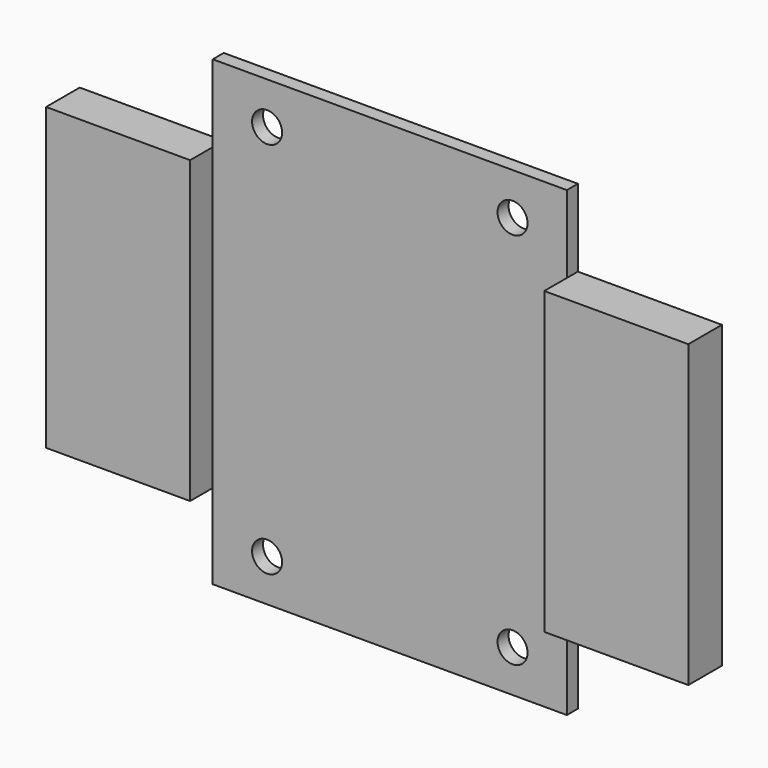
from build123d import *

# Parameters (mm, degrees)
F0_R     = 2.5
F1_DEPTH = 2.29
F0_W     = 24
F0_H     = 50
F2_DEPTH = 7


with BuildPart() as f1:
    # F0 (on Front) → F1 (new body)
    with BuildSketch(Plane.XZ):
        Polygon((-29.5, -38.5), (29.5, -38.5), (29.5, -24.384001), (29.5, 25.615999), (29.5, 38.5), (-29.5, 38.5), (-29.5, 25.615999), (-29.5, -24.384001), align=None)
        with Locations((-20.45, -31.5)):
            Circle(F0_R, mode=Mode.SUBTRACT)
        with Locations((20.45, -31.5)):
            Circle(F0_R, mode=Mode.SUBTRACT)
        with Locations((-20.45, 31.5)):
            Circle(F0_R, mode=Mode.SUBTRACT)
        with Locations((20.45, 31.5)):
            Circle(F0_R, mode=Mode.SUBTRACT)
    extrude(amount=F1_DEPTH)

    # F0 (on Front) → F2 (join)
    with BuildSketch(Plane.XZ):
        with Locations((41.5, 0.615999)):
            Rectangle(F0_W, F0_H)
        with Locations((-41.5, 0.615999)):
            Rectangle(F0_W, F0_H)
    extrude(amount=F2_DEPTH)


solid = f1.part
